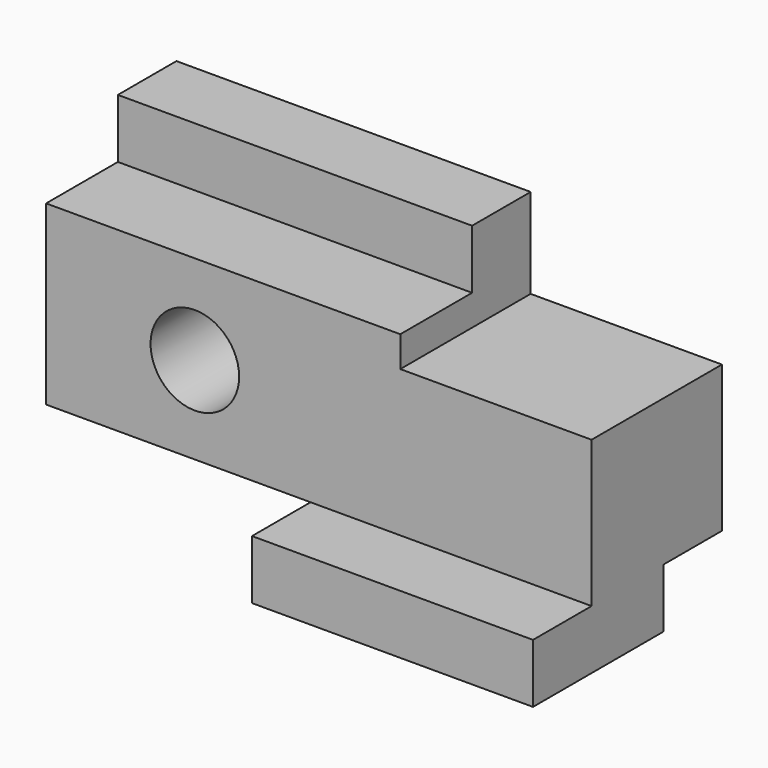
from build123d import *

# Parameters (mm, degrees)
F0_W      = 117.348
F0_H      = 63.5
F1_DEPTH  = 35.052
F2_W      = 60.452
F2_H      = 12.7
F3_DEPTH  = 15.748
F2_W_2    = 56.896
F4_DEPTH  = 35.053
F2_W_3    = 76.2
F5_DEPTH  = 19.304
F6_W      = 41.148
F6_H      = 19.304
F7_DEPTH  = 35.053
F8_W      = 15.748
F8_H      = 12.7
F9_DEPTH  = 117.349
F10_R     = 9.525
F11_DEPTH = 35.053


with BuildPart() as f1:
    # F0 (on Front) → F1 (new body)
    with BuildSketch(Plane.XZ):
        with Locations((4.963025, 6.989291)):
            Rectangle(F0_W, F0_H)
    extrude(amount=F1_DEPTH)

    # F2 (on face) → F3 (join)
    with BuildSketch(Plane.XZ.offset(35.052)):
        with Locations((33.411025, -18.410709)):
            Rectangle(F2_W, F2_H)
    extrude(amount=F3_DEPTH)

    # F2 (on face) → F4 (cut, through all)
    with BuildSketch(Plane.XZ.offset(35.052)):
        with Locations((-25.262975, -18.410709)):
            Rectangle(F2_W_2, F2_H)
    extrude(amount=-F4_DEPTH, mode=Mode.SUBTRACT)

    # F2 (on face) → F5 (cut)
    with BuildSketch(Plane.XZ.offset(35.052)):
        with Locations((-15.610975, 32.389291)):
            Rectangle(F2_W_3, F2_H)
    extrude(amount=-F5_DEPTH, mode=Mode.SUBTRACT)

    # F6 (on face) → F7 (cut, through all)
    with BuildSketch(Plane.XZ.offset(35.052)):
        with Locations((43.063025, 29.087291)):
            Rectangle(F6_W, F6_H)
    extrude(amount=-F7_DEPTH, mode=Mode.SUBTRACT)

    # F8 (on face) → F9 (cut, through all)
    with BuildSketch(Plane.YZ.offset(63.637025)):
        with Locations((-7.874, -18.410709)):
            Rectangle(F8_W, F8_H)
    extrude(amount=-F9_DEPTH, mode=Mode.SUBTRACT)

    # F10 (on face) → F11 (cut, through all)
    with BuildSketch(Plane.XZ.offset(35.052)):
        with Locations((-21.706975, 6.735291)):
            Circle(F10_R)
    extrude(amount=-F11_DEPTH, mode=Mode.SUBTRACT)


solid = f1.part
